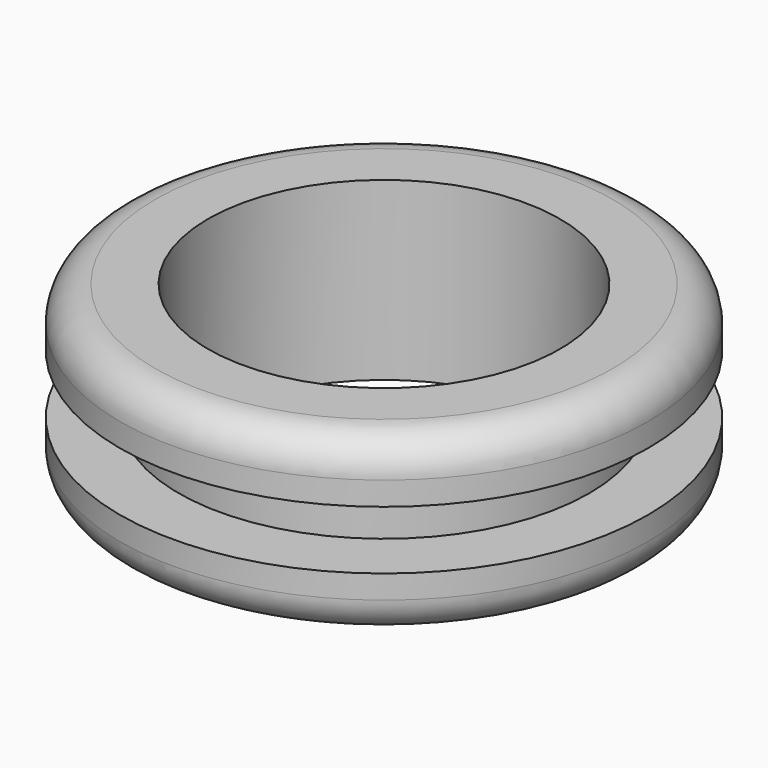
from build123d import *


with BuildPart() as f1:
    # F0 (on Front) → F1 (revolve)
    with BuildSketch(Plane.XZ):
        with BuildLine():
            Line((-9.525, 4.7625), (-12.3825, 4.7625))
            ThreePointArc((-12.3825, 4.7625), (-13.729538, 4.204538), (-14.2875, 2.8575))
            Line((-14.2875, 2.8575), (-14.2875, 1.5875))
            Line((-14.2875, 1.5875), (-11.1125, 1.5875))
            Line((-11.1125, 1.5875), (-11.1125, -1.5875))
            Line((-11.1125, -1.5875), (-14.2875, -1.5875))
            Line((-14.2875, -1.5875), (-14.2875, -2.8575))
            ThreePointArc((-14.2875, -2.8575), (-13.729538, -4.204538), (-12.3825, -4.7625))
            Line((-12.3825, -4.7625), (-9.525, -4.7625))
            Line((-9.525, -4.7625), (-9.525, 4.7625))
        make_face()
    revolve(axis=Axis((0, 0, -0.259772), (0, 0, -1)))


solid = f1.part
